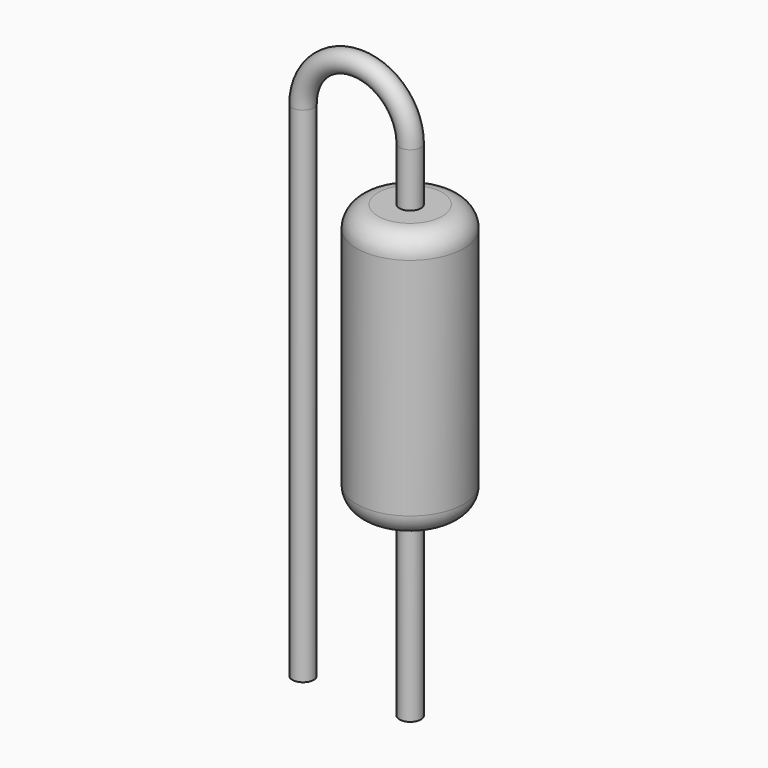
from build123d import *

# Parameters (mm, degrees)
F0_W = 1.27
F0_H = 6.35
F2_R = 0.508
F5_R = 0.254


with BuildPart() as f1:
    # F0 (on Front) → F1 (revolve)
    with BuildSketch(Plane.XZ):
        with Locations((0.635, 3.683)):
            Rectangle(F0_W, F0_H)
    revolve(axis=Axis((0, 0, 3.683), (0, 0, 1)))

    # F2
    f2_edges = [f1.edges().sort_by_distance(p)[0] for p in [
        (-1.27, 0, 6.858),
        (-1.27, 0, 0.508),
    ]]
    fillet(f2_edges, radius=F2_R)

    # F6: sweep along a path in F3
    with BuildLine(Plane.XZ) as f6_path:
        Line((0, -3.81), (0, 8.128))
        ThreePointArc((0, 8.128), (-1.27, 9.398), (-2.54, 8.128))
        Line((-2.54, 8.128), (-2.54, -3.81))
    # F5 (on offset) → F6 (sweep)
    with BuildSketch(Plane.XY.offset(-3.81)):
        Circle(F5_R)
    sweep(path=f6_path.line)


solid = f1.part
